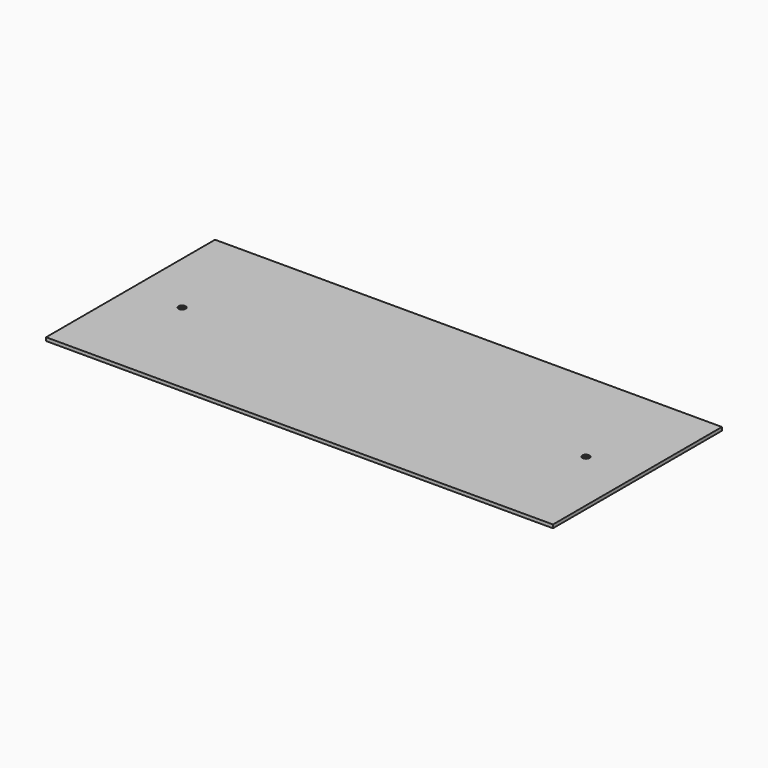
from build123d import *

# Parameters (mm, degrees)
F0_W     = 300
F0_H     = 125
F0_R     = 1.6
F1_DEPTH = 2
F2_SIZE  = 0.5


with BuildPart() as f1:
    # F0 (on Top) → F1 (new body)
    with BuildSketch(Plane.XY):
        Rectangle(F0_W, F0_H)
        with Locations((-119.5, 0)):
            Circle(F0_R, mode=Mode.SUBTRACT)
        with Locations((119.5, 0)):
            Circle(F0_R, mode=Mode.SUBTRACT)
    extrude(amount=F1_DEPTH)

    # F2
    f2_edges = [f1.edges().sort_by_distance(p)[0] for p in [
        (-117.9, 0, 1),
        (-121.1, 0, 0),
        (-121.1, 0, 2),
        (121.1, 0, 1),
        (117.9, 0, 0),
        (117.9, 0, 2),
    ]]
    chamfer(f2_edges, length=F2_SIZE)


solid = f1.part
